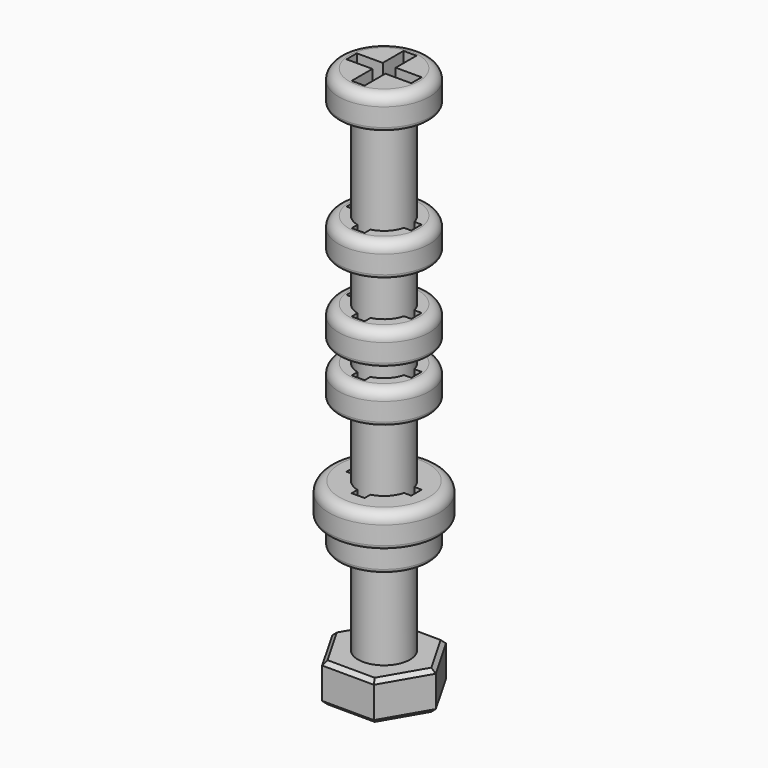
from build123d import *

# Parameters (mm, degrees)
SKETCH_R        = 2
PAD_DEPTH       = 10
SKETCH001_R     = 3.5
PAD001_DEPTH    = 2.5
SKETCH002_W     = 5
SKETCH002_H     = 1
POCKET_DEPTH    = 2
SKETCH003_W     = 1
SKETCH003_H     = 5
POCKET001_DEPTH = 2
FILLET_R        = 0.8
CHAMFER_SIZE    = 1
FILLET001_R     = 0.3
SKETCH004_R     = 2
PAD002_DEPTH    = 3
CHAMFER001_SIZE = 0.3
CHAMFER002_SIZE = 0.3
SKETCH006_R     = 2
PAD004_DEPTH    = 30
SKETCH005_R     = 3.5
PAD003_DEPTH    = 2.5
SKETCH008_W     = 5
SKETCH008_H     = 1
POCKET003_DEPTH = 2
SKETCH007_W     = 1
SKETCH007_H     = 5
POCKET002_DEPTH = 2
FILLET003_R     = 0.8
CHAMFER003_SIZE = 1
FILLET002_R     = 0.3
SKETCH010_R     = 2
PAD006_DEPTH    = 24
SKETCH009_R     = 3.5
PAD005_DEPTH    = 2.5
SKETCH012_W     = 5
SKETCH012_H     = 1
POCKET005_DEPTH = 2
SKETCH011_W     = 1
SKETCH011_H     = 5
POCKET004_DEPTH = 2
FILLET005_R     = 0.8
CHAMFER004_SIZE = 1
FILLET004_R     = 0.3
SKETCH013_R     = 2
PAD008_DEPTH    = 40
SKETCH014_R     = 3.5
PAD007_DEPTH    = 2.5
SKETCH016_W     = 5
SKETCH016_H     = 1
POCKET006_DEPTH = 2
SKETCH015_W     = 1
SKETCH015_H     = 5
POCKET007_DEPTH = 2
FILLET006_R     = 0.8
CHAMFER005_SIZE = 1
FILLET007_R     = 0.3
SKETCH018_R     = 2
PAD010_DEPTH    = 12
SKETCH017_R     = 4.25
PAD009_DEPTH    = 2.5
SKETCH020_W     = 5
SKETCH020_H     = 1
POCKET009_DEPTH = 2
SKETCH019_W     = 1
SKETCH019_H     = 5
POCKET008_DEPTH = 2
FILLET009_R     = 0.8
CHAMFER006_SIZE = 1
FILLET008_R     = 0.3
SKETCH021_R     = 2
PAD012_DEPTH    = 20
SKETCH024_R     = 3.5
PAD011_DEPTH    = 2.5
SKETCH022_W     = 5
SKETCH022_H     = 1
POCKET011_DEPTH = 2
SKETCH023_W     = 1
SKETCH023_H     = 5
POCKET010_DEPTH = 2
FILLET011_R     = 0.8
CHAMFER007_SIZE = 1
FILLET010_R     = 0.3


with BuildPart() as m4_10mm:
    # Sketch → Pad (new body)
    with BuildSketch(Plane.XY):
        Circle(SKETCH_R)
    extrude(amount=PAD_DEPTH)

    # Sketch001 (on Face3 of Pad) → Pad001 (join)
    with BuildSketch(Plane.XY.offset(10)):
        Circle(SKETCH001_R)
    extrude(amount=PAD001_DEPTH)

    # Sketch002 (on Face3 of Pad001) → Pocket (cut)
    with BuildSketch(Plane.XY.offset(12.5)):
        Rectangle(SKETCH002_W, SKETCH002_H)
    extrude(amount=-POCKET_DEPTH, mode=Mode.SUBTRACT)

    # Sketch003 (on Face3 of Pocket) → Pocket001 (cut)
    with BuildSketch(Plane.XY.offset(12.5)):
        Rectangle(SKETCH003_W, SKETCH003_H)
    extrude(amount=-POCKET001_DEPTH, mode=Mode.SUBTRACT)

    # Fillet
    fillet_edges = [m4_10mm.edges().sort_by_distance(p)[0] for p in [
        (-3.5, 0, 12.5),
    ]]
    fillet(fillet_edges, radius=FILLET_R)

    # Chamfer
    chamfer_edges = [m4_10mm.edges().sort_by_distance(p)[0] for p in [
        (2.5, 0, 10.5),
        (0, 2.5, 10.5),
        (-2.5, 0, 10.5),
        (0, -2.5, 10.5),
    ]]
    chamfer(chamfer_edges, length=CHAMFER_SIZE)

    # Fillet001
    fillet001_edges = [m4_10mm.edges().sort_by_distance(p)[0] for p in [
        (-3.5, 0, 10),
    ]]
    fillet(fillet001_edges, radius=FILLET001_R)


with BuildPart() as m4_nut:
    # Sketch004 → Pad002 (new body)
    with BuildSketch(Plane.XY):
        Polygon((2.012754, 3.456707), (-1.987219, 3.471449), (-3.999973, 0.014743), (-2.012754, -3.456707), (1.987219, -3.471449), (3.999973, -0.014743), align=None)
        Circle(SKETCH004_R, mode=Mode.SUBTRACT)
    extrude(amount=PAD002_DEPTH)

    # Chamfer001
    chamfer001_edges = [m4_nut.edges().sort_by_distance(p)[0] for p in [
        (-3.006363, -1.720982, 0),
        (-0.012767, -3.464078, 0),
        (2.993596, -1.743096, 0),
        (3.006363, 1.720982, 0),
        (0.012767, 3.464078, 0),
        (-2.993596, 1.743096, 0),
    ]]
    chamfer(chamfer001_edges, length=CHAMFER001_SIZE)

    # Chamfer002
    chamfer002_edges = [m4_nut.edges().sort_by_distance(p)[0] for p in [
        (-0.012767, -3.464078, 3),
        (-3.006363, -1.720982, 3),
        (-2.993596, 1.743096, 3),
        (0.012767, 3.464078, 3),
        (3.006363, 1.720982, 3),
        (2.993596, -1.743096, 3),
    ]]
    chamfer(chamfer002_edges, length=CHAMFER002_SIZE)


with BuildPart() as m4_30mm:
    # Sketch006 → Pad004 (new body)
    with BuildSketch(Plane.XY):
        Circle(SKETCH006_R)
    extrude(amount=PAD004_DEPTH)

    # Sketch005 (on Face3 of Pad004) → Pad003 (join)
    with BuildSketch(Plane.XY.offset(30)):
        Circle(SKETCH005_R)
    extrude(amount=PAD003_DEPTH)

    # Sketch008 (on Face3 of Pad003) → Pocket003 (cut)
    with BuildSketch(Plane.XY.offset(32.5)):
        Rectangle(SKETCH008_W, SKETCH008_H)
    extrude(amount=-POCKET003_DEPTH, mode=Mode.SUBTRACT)

    # Sketch007 (on Face3 of Pocket003) → Pocket002 (cut)
    with BuildSketch(Plane.XY.offset(32.5)):
        Rectangle(SKETCH007_W, SKETCH007_H)
    extrude(amount=-POCKET002_DEPTH, mode=Mode.SUBTRACT)

    # Fillet003
    fillet003_edges = [m4_30mm.edges().sort_by_distance(p)[0] for p in [
        (-3.5, 0, 32.5),
    ]]
    fillet(fillet003_edges, radius=FILLET003_R)

    # Chamfer003
    chamfer003_edges = [m4_30mm.edges().sort_by_distance(p)[0] for p in [
        (2.5, 0, 30.5),
        (0, 2.5, 30.5),
        (-2.5, 0, 30.5),
        (0, -2.5, 30.5),
    ]]
    chamfer(chamfer003_edges, length=CHAMFER003_SIZE)

    # Fillet002
    fillet002_edges = [m4_30mm.edges().sort_by_distance(p)[0] for p in [
        (-3.5, 0, 30),
    ]]
    fillet(fillet002_edges, radius=FILLET002_R)


with BuildPart() as m4_24mm:
    # Sketch010 → Pad006 (new body)
    with BuildSketch(Plane.XY):
        Circle(SKETCH010_R)
    extrude(amount=PAD006_DEPTH)

    # Sketch009 (on Face3 of Pad006) → Pad005 (join)
    with BuildSketch(Plane.XY.offset(24)):
        Circle(SKETCH009_R)
    extrude(amount=PAD005_DEPTH)

    # Sketch012 (on Face3 of Pad005) → Pocket005 (cut)
    with BuildSketch(Plane.XY.offset(26.5)):
        Rectangle(SKETCH012_W, SKETCH012_H)
    extrude(amount=-POCKET005_DEPTH, mode=Mode.SUBTRACT)

    # Sketch011 (on Face3 of Pocket005) → Pocket004 (cut)
    with BuildSketch(Plane.XY.offset(26.5)):
        Rectangle(SKETCH011_W, SKETCH011_H)
    extrude(amount=-POCKET004_DEPTH, mode=Mode.SUBTRACT)

    # Fillet005
    fillet005_edges = [m4_24mm.edges().sort_by_distance(p)[0] for p in [
        (-3.5, 0, 26.5),
    ]]
    fillet(fillet005_edges, radius=FILLET005_R)

    # Chamfer004
    chamfer004_edges = [m4_24mm.edges().sort_by_distance(p)[0] for p in [
        (2.5, 0, 24.5),
        (0, 2.5, 24.5),
        (-2.5, 0, 24.5),
        (0, -2.5, 24.5),
    ]]
    chamfer(chamfer004_edges, length=CHAMFER004_SIZE)

    # Fillet004
    fillet004_edges = [m4_24mm.edges().sort_by_distance(p)[0] for p in [
        (-3.5, 0, 24),
    ]]
    fillet(fillet004_edges, radius=FILLET004_R)


with BuildPart() as m4_40mm:
    # Sketch013 → Pad008 (new body)
    with BuildSketch(Plane.XY):
        Circle(SKETCH013_R)
    extrude(amount=PAD008_DEPTH)

    # Sketch014 (on Face3 of Pad008) → Pad007 (join)
    with BuildSketch(Plane.XY.offset(40)):
        Circle(SKETCH014_R)
    extrude(amount=PAD007_DEPTH)

    # Sketch016 (on Face3 of Pad007) → Pocket006 (cut)
    with BuildSketch(Plane.XY.offset(42.5)):
        Rectangle(SKETCH016_W, SKETCH016_H)
    extrude(amount=-POCKET006_DEPTH, mode=Mode.SUBTRACT)

    # Sketch015 (on Face3 of Pocket006) → Pocket007 (cut)
    with BuildSketch(Plane.XY.offset(42.5)):
        Rectangle(SKETCH015_W, SKETCH015_H)
    extrude(amount=-POCKET007_DEPTH, mode=Mode.SUBTRACT)

    # Fillet006
    fillet006_edges = [m4_40mm.edges().sort_by_distance(p)[0] for p in [
        (-3.5, 0, 42.5),
    ]]
    fillet(fillet006_edges, radius=FILLET006_R)

    # Chamfer005
    chamfer005_edges = [m4_40mm.edges().sort_by_distance(p)[0] for p in [
        (2.5, 0, 40.5),
        (0, 2.5, 40.5),
        (-2.5, 0, 40.5),
        (0, -2.5, 40.5),
    ]]
    chamfer(chamfer005_edges, length=CHAMFER005_SIZE)

    # Fillet007
    fillet007_edges = [m4_40mm.edges().sort_by_distance(p)[0] for p in [
        (-3.5, 0, 40),
    ]]
    fillet(fillet007_edges, radius=FILLET007_R)


with BuildPart() as m4_12mm:
    # Sketch018 → Pad010 (new body)
    with BuildSketch(Plane.XY):
        Circle(SKETCH018_R)
    extrude(amount=PAD010_DEPTH)

    # Sketch017 (on Face3 of Pad010) → Pad009 (join)
    with BuildSketch(Plane.XY.offset(12)):
        Circle(SKETCH017_R)
    extrude(amount=PAD009_DEPTH)

    # Sketch020 (on Face3 of Pad009) → Pocket009 (cut)
    with BuildSketch(Plane.XY.offset(14.5)):
        Rectangle(SKETCH020_W, SKETCH020_H)
    extrude(amount=-POCKET009_DEPTH, mode=Mode.SUBTRACT)

    # Sketch019 (on Face3 of Pocket009) → Pocket008 (cut)
    with BuildSketch(Plane.XY.offset(14.5)):
        Rectangle(SKETCH019_W, SKETCH019_H)
    extrude(amount=-POCKET008_DEPTH, mode=Mode.SUBTRACT)

    # Fillet009
    fillet009_edges = [m4_12mm.edges().sort_by_distance(p)[0] for p in [
        (-4.25, 0, 14.5),
    ]]
    fillet(fillet009_edges, radius=FILLET009_R)

    # Chamfer006
    chamfer006_edges = [m4_12mm.edges().sort_by_distance(p)[0] for p in [
        (2.5, 0, 12.5),
        (0, 2.5, 12.5),
        (-2.5, 0, 12.5),
        (0, -2.5, 12.5),
    ]]
    chamfer(chamfer006_edges, length=CHAMFER006_SIZE)

    # Fillet008
    fillet008_edges = [m4_12mm.edges().sort_by_distance(p)[0] for p in [
        (-4.25, 0, 12),
    ]]
    fillet(fillet008_edges, radius=FILLET008_R)


with BuildPart() as m4_20mm:
    # Sketch021 → Pad012 (new body)
    with BuildSketch(Plane.XY):
        Circle(SKETCH021_R)
    extrude(amount=PAD012_DEPTH)

    # Sketch024 (on Face3 of Pad012) → Pad011 (join)
    with BuildSketch(Plane.XY.offset(20)):
        Circle(SKETCH024_R)
    extrude(amount=PAD011_DEPTH)

    # Sketch022 (on Face3 of Pad011) → Pocket011 (cut)
    with BuildSketch(Plane.XY.offset(22.5)):
        Rectangle(SKETCH022_W, SKETCH022_H)
    extrude(amount=-POCKET011_DEPTH, mode=Mode.SUBTRACT)

    # Sketch023 (on Face3 of Pocket011) → Pocket010 (cut)
    with BuildSketch(Plane.XY.offset(22.5)):
        Rectangle(SKETCH023_W, SKETCH023_H)
    extrude(amount=-POCKET010_DEPTH, mode=Mode.SUBTRACT)

    # Fillet011
    fillet011_edges = [m4_20mm.edges().sort_by_distance(p)[0] for p in [
        (-3.5, 0, 22.5),
    ]]
    fillet(fillet011_edges, radius=FILLET011_R)

    # Chamfer007
    chamfer007_edges = [m4_20mm.edges().sort_by_distance(p)[0] for p in [
        (2.5, 0, 20.5),
        (0, 2.5, 20.5),
        (-2.5, 0, 20.5),
        (0, -2.5, 20.5),
    ]]
    chamfer(chamfer007_edges, length=CHAMFER007_SIZE)

    # Fillet010
    fillet010_edges = [m4_20mm.edges().sort_by_distance(p)[0] for p in [
        (-3.5, 0, 20),
    ]]
    fillet(fillet010_edges, radius=FILLET010_R)


solid = Compound([m4_10mm.part, m4_nut.part, m4_30mm.part, m4_24mm.part, m4_40mm.part, m4_12mm.part, m4_20mm.part])
